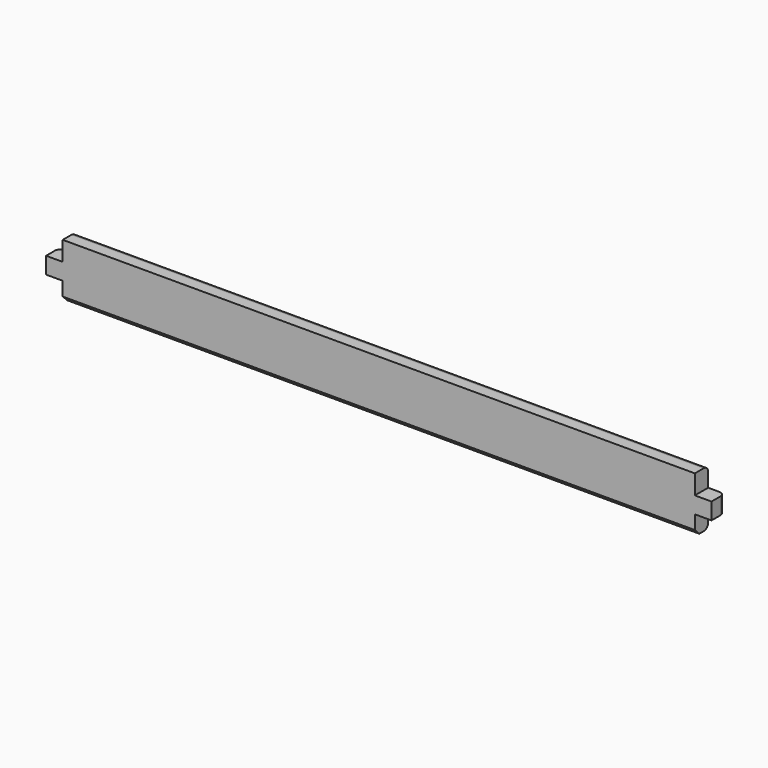
from build123d import *

# Parameters (mm, degrees)
F1_DEPTH = 15
F2_R     = 5
F3_R     = 5
F4_SIZE  = 5


with BuildPart() as f1:
    # F0 (on Front) → F1 (new body)
    with BuildSketch(Plane.XZ):
        Polygon((285, 0), (0, 0), (-285, 0), (-285, -17.5), (-300, -17.5), (-300, -32.5), (-285, -32.5), (-285, -50), (0, -50), (285, -50), (285, -32.5), (300, -32.5), (300, -17.5), (285, -17.5), align=None)
    extrude(amount=F1_DEPTH)

    # F2
    f2_edges = [f1.edges().sort_by_distance(p)[0] for p in [
        (300, 0, -25),
        (-300, 0, -25),
    ]]
    fillet(f2_edges, radius=F2_R)

    # F3
    f3_edges = [f1.edges().sort_by_distance(p)[0] for p in [
        (0, 0, 0),
        (0, 0, -50),
    ]]
    fillet(f3_edges, radius=F3_R)

    # F4
    f4_edges = [f1.edges().sort_by_distance(p)[0] for p in [
        (0, -15, -50),
    ]]
    chamfer(f4_edges, length=F4_SIZE)


solid = f1.part
